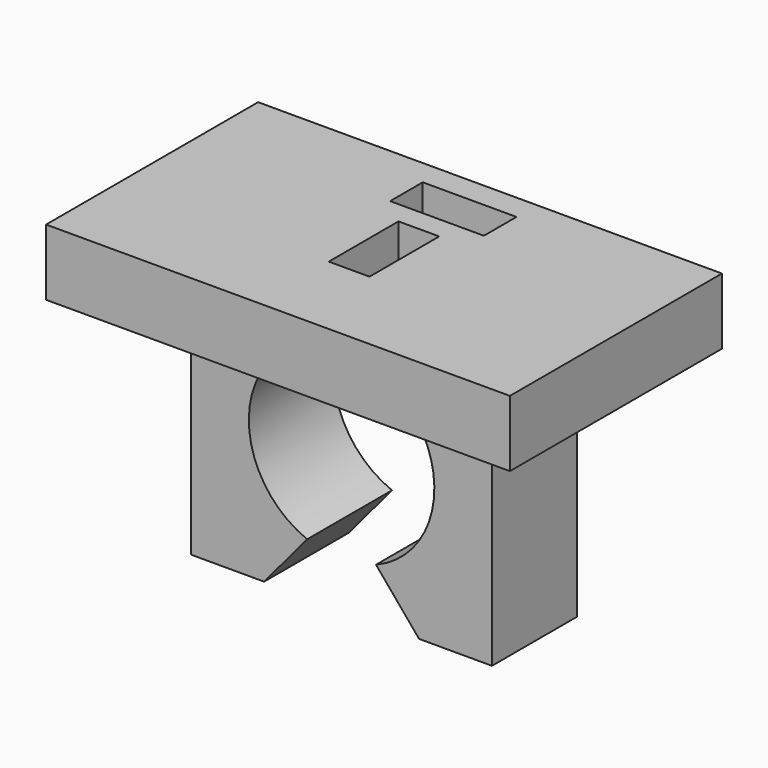
from build123d import *

# Parameters (mm, degrees)
F0_W     = 70
F0_H     = 40
F0_W_2   = 6.15
F0_H_2   = 13.15
F0_W_3   = 14.15
F0_H_3   = 6.15
F1_DEPTH = 10
F3_DEPTH = 8


with BuildPart() as f1:
    # F0 (on Top) → F1 (new body)
    with BuildSketch(Plane.XY):
        Rectangle(F0_W, F0_H)
        Rectangle(F0_W_2, F0_H_2, mode=Mode.SUBTRACT)
        with Locations((0, 13.075)):
            Rectangle(F0_W_3, F0_H_3, mode=Mode.SUBTRACT)
    extrude(amount=F1_DEPTH)

    # F2 (on Front) → F3 (join, symmetric)
    with BuildSketch(Plane.XZ):
        with BuildLine():
            Line((-3.075, 0), (-22.696152, 0))
            Line((-22.696152, 0), (-22.696152, -34.746398))
            Line((-22.696152, -34.746398), (-11.696152, -34.746398))
            Line((-11.696152, -34.746398), (-5.196152, -27))
            ThreePointArc((-5.196152, -27), (-13.955891, -12.889548), (-3.075, -0.341875))
            Line((-3.075, -0.341875), (-3.075, 0))
        make_face()
        with BuildLine():
            Line((3.075, 0), (3.075, -0.341875))
            ThreePointArc((3.075, -0.341875), (13.955891, -12.889548), (5.196152, -27))
            Line((5.196152, -27), (11.696152, -34.746398))
            Line((11.696152, -34.746398), (22.696152, -34.746398))
            Line((22.696152, -34.746398), (22.696152, 0))
            Line((22.696152, 0), (3.075, 0))
        make_face()
    extrude(amount=F3_DEPTH, both=True)


solid = f1.part
